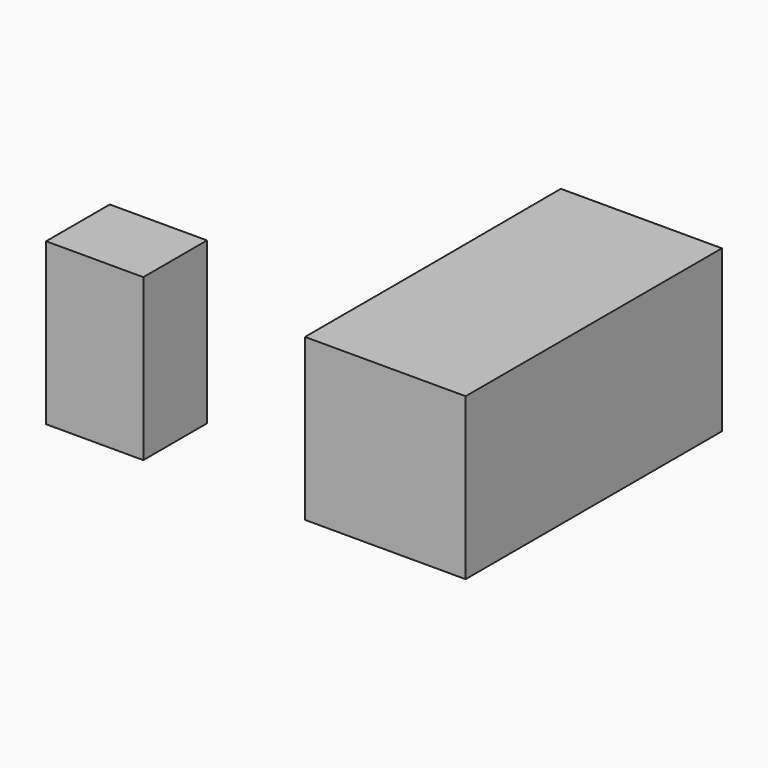
from build123d import *

# Parameters (mm, degrees)
F0_W     = 10.151514
F0_H     = 16
F0_W_2   = 9.655044
F0_H_2   = 7.909527
F1_DEPTH = 16
F2_DEPTH = 16
F3_DEPTH = 16


with BuildPart() as f1:
    # F0 (on Top) → F1 (new body)
    with BuildSketch(Plane.XY):
        Polygon((-36.582487, 46.714936), (-36.533692, 30.714936), (-30.734001, 30.714936), (-30.734001, 46.714936), align=None)
        Polygon((-30.734001, 30.714936), (-36.533692, 30.714936), (-36.533692, 14.895882), (-20.582487, 14.895882), (-20.582487, 30.714936), align=None)
        with Locations((-25.658244, 38.714936)):
            Rectangle(F0_W, F0_H)
        with Locations((-57.422957, 18.850645)):
            Rectangle(F0_W_2, F0_H_2)
    extrude(amount=F1_DEPTH)

    # F0 (on Top) → F2 (join)
    with BuildSketch(Plane.XY):
        Polygon((-30.734001, 30.714936), (-36.533692, 30.714936), (-36.533692, 14.895882), (-20.582487, 14.895882), (-20.582487, 30.714936), align=None)
    extrude(amount=F2_DEPTH)

    # F0 (on Top) → F3 (join)
    with BuildSketch(Plane.XY):
        with Locations((-57.422957, 18.850645)):
            Rectangle(F0_W_2, F0_H_2)
    extrude(amount=F3_DEPTH)


solid = f1.part
